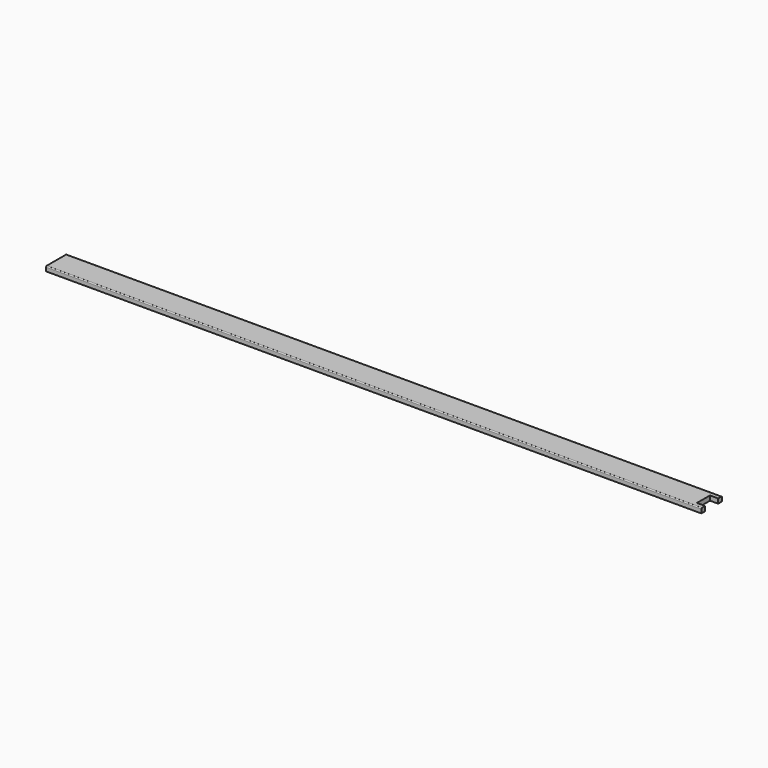
from build123d import *

# Parameters (mm, degrees)
F0_W     = 3556
F0_H     = 139.7
F1_DEPTH = 25.4
F2_W     = 44.45
F2_H     = 88.9
F3_DEPTH = 25.401
F4_R     = 5.08


with BuildPart() as f1:
    # F0 (on Top) → F1 (new body)
    with BuildSketch(Plane.XY):
        Rectangle(F0_W, F0_H)
    extrude(amount=F1_DEPTH)

    # F2 (on face) → F3 (cut, through all)
    with BuildSketch(Plane.XY.offset(25.4)):
        with Locations((1755.775, 0)):
            Rectangle(F2_W, F2_H)
    extrude(amount=-F3_DEPTH, mode=Mode.SUBTRACT)

    # F4
    f4_edges = [f1.edges().sort_by_distance(p)[0] for p in [
        (0, -69.85, 25.4),
        (0, 69.85, 25.4),
    ]]
    fillet(f4_edges, radius=F4_R)


solid = f1.part
